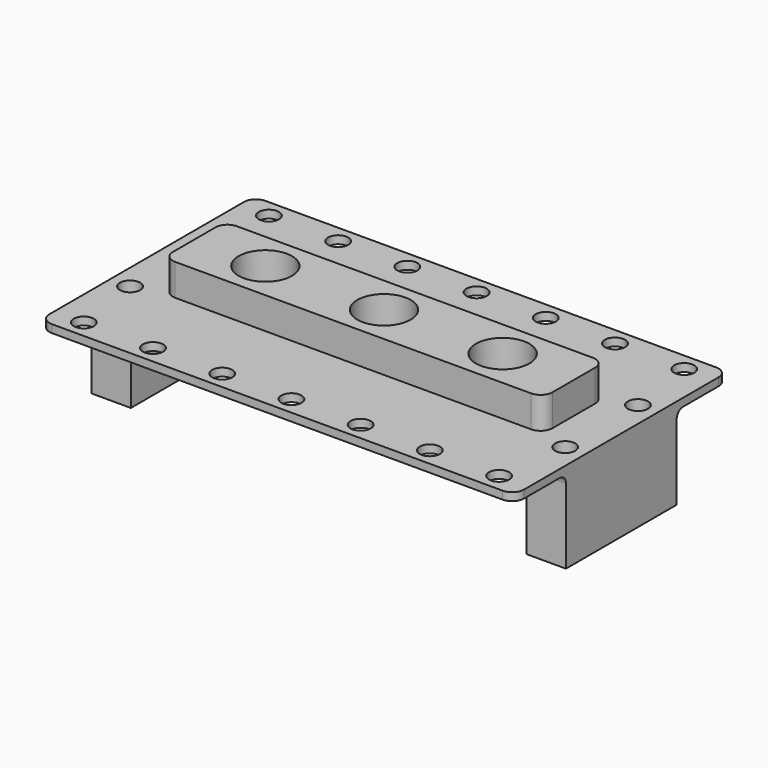
from build123d import *

# Parameters (mm, degrees)
F0_W      = 120
F0_H      = 67.5
F1_DEPTH  = 20
F2_W      = 96
F2_H      = 19.5
F3_DEPTH  = 8
F4_R      = 6.75
F5_DEPTH  = 25
F7_DEPTH  = 18
F8_R      = 2.55
F9_DEPTH  = 25
F10_R     = 3
F11_R     = 3
F12_W     = 10
F12_H     = 35
F13_DEPTH = 3
F14_R     = 2
F15_R     = 2.55
F16_DEPTH = 10


with BuildPart() as f1:
    # F0 (on Top) → F1 (new body)
    with BuildSketch(Plane.XY):
        with Locations((60, -33.75)):
            Rectangle(F0_W, F0_H)
    extrude(amount=F1_DEPTH)

    # F2 (on face) → F3 (join)
    with BuildSketch(Plane.XY.offset(20)):
        with Locations((60, -33.75)):
            Rectangle(F2_W, F2_H)
    extrude(amount=F3_DEPTH)

    # F4 (on face) → F5 (cut)
    with BuildSketch(Plane.XY.offset(28)):
        with Locations((60, -33.75)):
            Circle(F4_R)
        with Locations((30, -33.75)):
            Circle(F4_R)
        with Locations((90, -33.75)):
            Circle(F4_R)
    extrude(amount=-F5_DEPTH, mode=Mode.SUBTRACT)

    # F6 (on face) → F7 (cut)
    with BuildSketch(Plane(origin=(0, 0, 0), x_dir=(1, 0, 0), z_dir=(0, 0, -1))):
        Polygon((10, 0), (110, 0), (120, 0), (120, 16.25), (110, 16.25), (110, 51.25), (120, 51.25), (120, 67.5), (110, 67.5), (10, 67.5), (0, 67.5), (0, 51.25), (10, 51.25), (10, 16.25), (0, 16.25), (0, 0), align=None)
    extrude(amount=-F7_DEPTH, mode=Mode.SUBTRACT)

    # F8 (on face) → F9 (cut)
    with BuildSketch(Plane.XY.offset(20)):
        with Locations((7.5, -4.5)):
            Circle(F8_R)
        with Locations((7.5, -63)):
            Circle(F8_R)
        with Locations((25, -4.5)):
            Circle(F8_R)
        with Locations((25, -63)):
            Circle(F8_R)
        with Locations((42.5, -4.5)):
            Circle(F8_R)
        with Locations((42.5, -63)):
            Circle(F8_R)
        with Locations((60, -4.5)):
            Circle(F8_R)
        with Locations((60, -63)):
            Circle(F8_R)
        with Locations((77.5, -4.5)):
            Circle(F8_R)
        with Locations((77.5, -63)):
            Circle(F8_R)
        with Locations((95, -4.5)):
            Circle(F8_R)
        with Locations((95, -63)):
            Circle(F8_R)
        with Locations((112.5, -4.5)):
            Circle(F8_R)
        with Locations((112.5, -63)):
            Circle(F8_R)
    extrude(amount=-F9_DEPTH, mode=Mode.SUBTRACT)

    # F10
    f10_edges = [f1.edges().sort_by_distance(p)[0] for p in [
        (108, -43.5, 24),
        (108, -24, 24),
        (12, -24, 24),
        (12, -43.5, 24),
    ]]
    fillet(f10_edges, radius=F10_R)

    # F11
    f11_edges = [f1.edges().sort_by_distance(p)[0] for p in [
        (120, 0, 19),
        (120, -67.5, 19),
        (0, 0, 19),
        (0, -67.5, 19),
    ]]
    fillet(f11_edges, radius=F11_R)

    # F12 (on face) → F13 (join)
    with BuildSketch(Plane(origin=(0, 0, 0), x_dir=(1, 0, 0), z_dir=(0, 0, -1))):
        with Locations((115, 33.75)):
            Rectangle(F12_W, F12_H)
        with Locations((5, 33.75)):
            Rectangle(F12_W, F12_H)
    extrude(amount=F13_DEPTH)

    # F14
    f14_edges = [f1.edges().sort_by_distance(p)[0] for p in [
        (115, -51.25, 18),
        (115, -16.25, 18),
        (5, -16.25, 18),
        (5, -51.25, 18),
    ]]
    fillet(f14_edges, radius=F14_R)

    # F15 (on face) → F16 (cut)
    with BuildSketch(Plane.XY.offset(20)):
        with Locations((115, -22.25)):
            Circle(F15_R)
        with Locations((115, -45.25)):
            Circle(F15_R)
        with Locations((5, -45.25)):
            Circle(F15_R)
        with Locations((5, -22.25)):
            Circle(F15_R)
    extrude(amount=-F16_DEPTH, mode=Mode.SUBTRACT)


solid = f1.part
